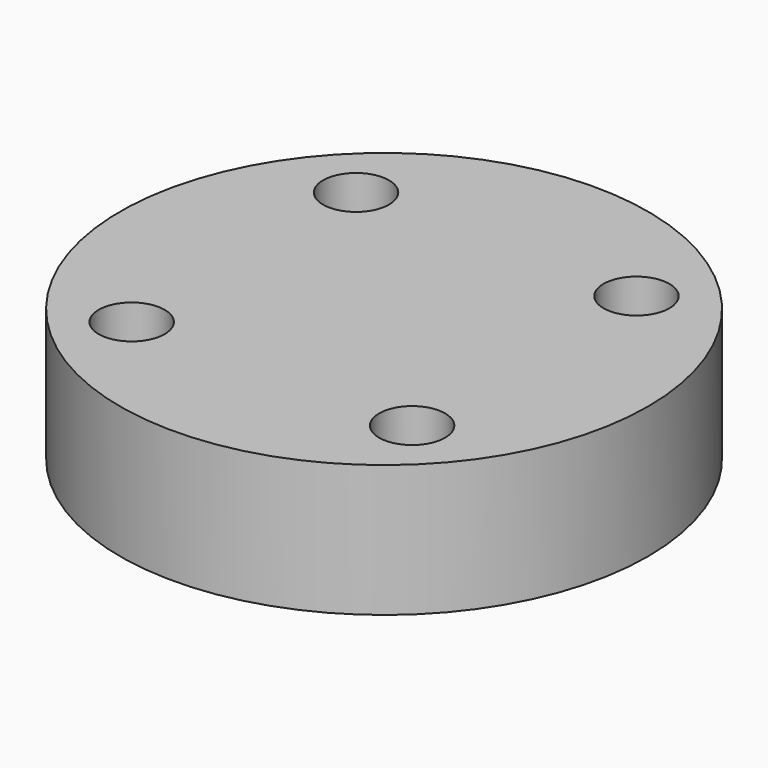
from build123d import *

# Parameters (mm, degrees)
CYLINDER1065_R     = 1
CYLINDER1065_DEPTH = 20
CYLINDER1070_R     = 1
CYLINDER1070_DEPTH = 20
CYLINDER1060_R     = 1
CYLINDER1060_DEPTH = 20
CYLINDER1072_R     = 1
CYLINDER1072_DEPTH = 20
CYLINDER1057_R     = 8
CYLINDER1057_DEPTH = 4


with BuildPart() as obj1:
    # Cylinder1065 → Cylinder1065 (new body)
    with BuildSketch(Plane(origin=(4.25, -4.25, -88), x_dir=(0, 1, 0), z_dir=(0, 0, 1))):
        Circle(CYLINDER1065_R)
    extrude(amount=CYLINDER1065_DEPTH)


with BuildPart() as obj2:
    # Cylinder1070 → Cylinder1070 (new body)
    with BuildSketch(Plane(origin=(4.25, 4.25, -88), x_dir=(-1, 0, 0), z_dir=(0, 0, 1))):
        Circle(CYLINDER1070_R)
    extrude(amount=CYLINDER1070_DEPTH)


with BuildPart() as obj3:
    # Cylinder1060 → Cylinder1060 (new body)
    with BuildSketch(Plane(origin=(-4.25, 4.25, -88), x_dir=(0, -1, 0), z_dir=(0, 0, 1))):
        Circle(CYLINDER1060_R)
    extrude(amount=CYLINDER1060_DEPTH)


with BuildPart() as compound854:
    # Cylinder1072 → Cylinder1072 (new body)
    with BuildSketch(Plane(origin=(-4.25, -4.25, -88), x_dir=(1, 0, 0), z_dir=(0, 0, 1))):
        Circle(CYLINDER1072_R)
    extrude(amount=CYLINDER1072_DEPTH)

    # Compound854: union obj1, obj2, obj3
    add(obj1.part)
    add(obj2.part)
    add(obj3.part)


with BuildPart() as compound854_1:
    # Compound854 placement: moved
    add(compound854.part.moved(Location((0, 0, 91))))


with BuildPart() as cut393:
    # Cylinder1057 → Cylinder1057 (new body)
    with BuildSketch(Plane.XY.offset(15)):
        Circle(CYLINDER1057_R)
    extrude(amount=CYLINDER1057_DEPTH)

    # Cut393: cut Compound854
    add(compound854_1.part, mode=Mode.SUBTRACT)


solid = cut393.part
